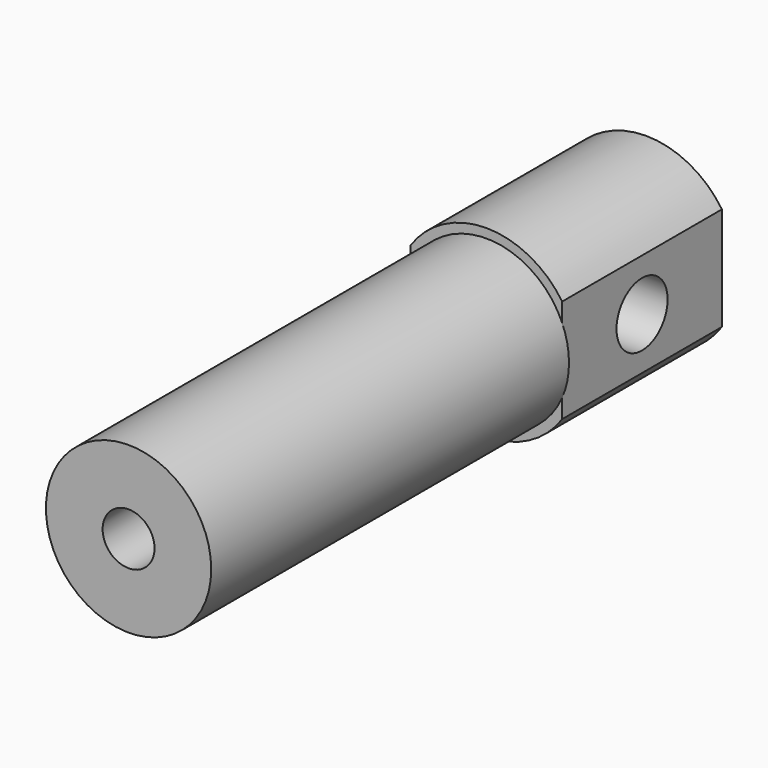
from build123d import *

# Parameters (mm, degrees)
F0_R     = 10.35
F1_DEPTH = 56
F2_R     = 11.5
F3_DEPTH = 25
F5_DEPTH = 25
F6_R     = 4
F7_DEPTH = 25
F8_R     = 3.25
F9_DEPTH = 30
F10_SIZE = 3.25


with BuildPart() as f1:
    # F0 (on Front) → F1 (new body)
    with BuildSketch(Plane.XZ):
        Circle(F0_R)
    extrude(amount=F1_DEPTH)

    # F2 (on face) → F3 (join)
    with BuildSketch(Plane(origin=(0, 0, 0), x_dir=(-1, 0, 0), z_dir=(0, 1, 0))):
        Circle(F2_R)
    extrude(amount=F3_DEPTH)

    # F4 (on face) → F5 (cut, through all)
    with BuildSketch(Plane(origin=(0, 25, 0), x_dir=(-1, 0, 0), z_dir=(0, 1, 0))):
        with BuildLine():
            Line((-9.5, -6.4807406984), (-9.5, 6.4807406984))
            ThreePointArc((-9.5, 6.4807406984), (-11.5, 0), (-9.5, -6.4807406984))
        make_face()
        with BuildLine():
            ThreePointArc((11.5, 0), (10.9886304879, 3.3911649916), (9.5, 6.4807406984))
            Line((9.5, 6.4807406984), (9.5, -6.4807406984))
            ThreePointArc((9.5, -6.4807406984), (10.9886304879, -3.3911649916), (11.5, 0))
        make_face()
    extrude(amount=-F5_DEPTH, mode=Mode.SUBTRACT)

    # F6 (on face) → F7 (cut)
    with BuildSketch(Plane(origin=(-9.5, 0, 0), x_dir=(0, -1, 0), z_dir=(-1, 0, 0))):
        with Locations((-12.5, 0)):
            Circle(F6_R)
    extrude(amount=-F7_DEPTH, mode=Mode.SUBTRACT)

    # F8 (on face) → F9 (cut)
    with BuildSketch(Plane.XZ.offset(56)):
        Circle(F8_R)
    extrude(amount=-F9_DEPTH, mode=Mode.SUBTRACT)

    # F10
    f10_edges = [f1.edges().sort_by_distance(p)[0] for p in [
        (-3.25, -26, 0),
    ]]
    chamfer(f10_edges, length=F10_SIZE)


solid = f1.part
